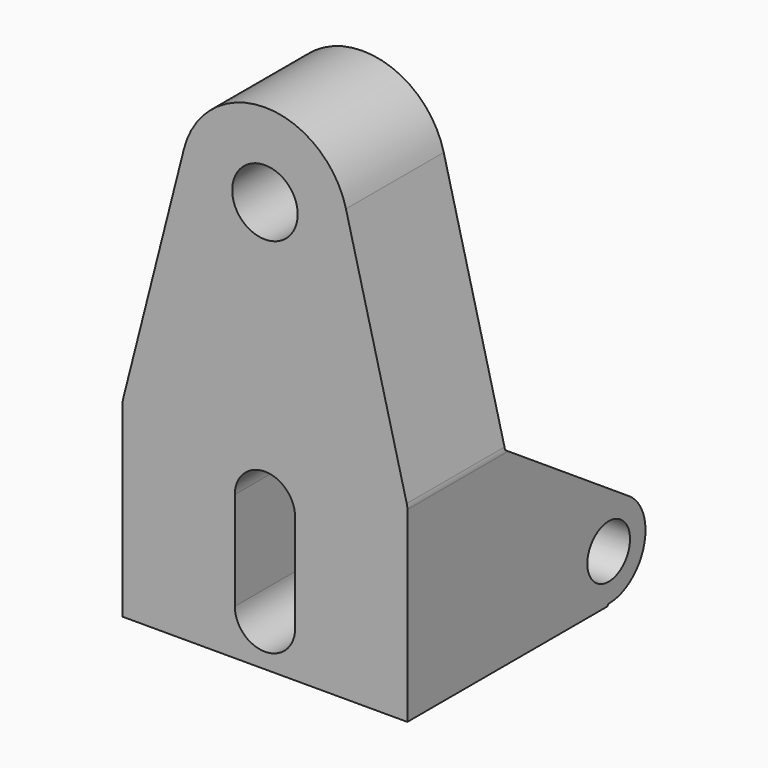
from build123d import *

# Parameters (mm, degrees)
F0_R     = 8.034582
F1_DEPTH = 15
F2_R     = 6.54267
F3_DEPTH = 15
F4_R     = 5.08


with BuildPart() as f1:
    # F0 (on Front) → F1 (new body, symmetric)
    with BuildSketch(Plane.XZ):
        with BuildLine():
            Line((-34.955353, -60.541797), (34.955353, -60.541797))
            Line((34.955353, -60.541797), (34.955353, -14.012067))
            Line((34.955353, -14.012067), (19.885809, 45.410026))
            ThreePointArc((19.885809, 45.410026), (0, 60.882263), (-19.885809, 45.410026))
            Line((-19.885809, 45.410026), (-34.955353, -14.012067))
            Line((-34.955353, -14.012067), (-34.955353, -60.541797))
        make_face()
        with BuildLine():
            ThreePointArc((-7.400118, -25.208272), (0, -17.808154), (7.400118, -25.208272))
            Line((7.400118, -25.208272), (7.400118, -49.345592))
            ThreePointArc((7.400118, -49.345592), (0, -56.74571), (-7.400118, -49.345592))
            Line((-7.400118, -49.345592), (-7.400118, -25.208272))
        make_face(mode=Mode.SUBTRACT)
        with Locations((0, 40.366952)):
            Circle(F0_R, mode=Mode.SUBTRACT)
    extrude(amount=F1_DEPTH, both=True)

    # F2 (on face) → F3 (join)
    with BuildSketch(Plane.YZ.offset(34.955353)):
        with BuildLine():
            Line((53.032903, -39.416735), (15, -14.012067))
            Line((15, -14.012067), (15, -60.541797))
            Line((15, -60.541797), (46.407126, -60.541797))
            Line((46.407126, -60.541797), (46.545673, -60.100067))
            ThreePointArc((46.545673, -60.100067), (57.536015, -52.188126), (53.032903, -39.416735))
        make_face()
        with Locations((46.759732, -48.808195)):
            Circle(F2_R, mode=Mode.SUBTRACT)
    extrude(amount=-F3_DEPTH)

    # F4
    f4_edges = [f1.edges().sort_by_distance(p)[0] for p in [
        (19.955353, 15, -37.276932),
        (-34.955353, 0, -14.012067),
        (34.955353, 0, -14.012067),
    ]]
    fillet(f4_edges, radius=F4_R)

    # F5: F1 across plane


with BuildPart() as f1_1:
    add(f1.part)
    add(f1.part.mirror(Plane.YZ))


solid = f1_1.part
